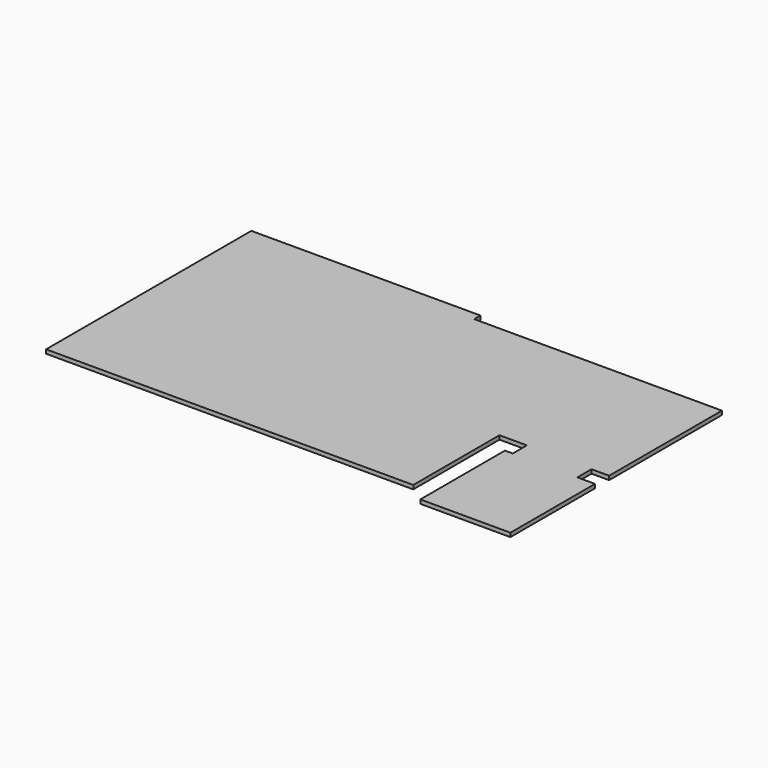
from build123d import *

# Parameters (mm, degrees)
F0_W     = 895.35
F0_H     = 698.5
F0_W_2   = 419.1
F0_H_2   = 114.3
F1_DEPTH = 25.4


with BuildPart() as f1:
    # F0 (on Top) → F1 (new body)
    with BuildSketch(Plane.XY):
        Polygon((1485.9, 0), (0, 0), (0, -1663.7), (1485.9, -1663.7), (1485.9, -965.2), (1485.9, -50.8), align=None)
        Polygon((3092.45, -50.8), (1485.9, -50.8), (1485.9, -965.2), (2381.25, -965.2), (2559.05, -965.2), (2978.15, -965.2), (3092.45, -965.2), align=None)
        with Locations((1933.575, -1314.45)):
            Rectangle(F0_W, F0_H)
        Polygon((2978.15, -1079.5), (2559.05, -1079.5), (2508.25, -1079.5), (2508.25, -1765.3), (3092.45, -1765.3), (3092.45, -1079.5), align=None)
        with Locations((2768.6, -1022.35)):
            Rectangle(F0_W_2, F0_H_2)
    extrude(amount=F1_DEPTH)


solid = f1.part
